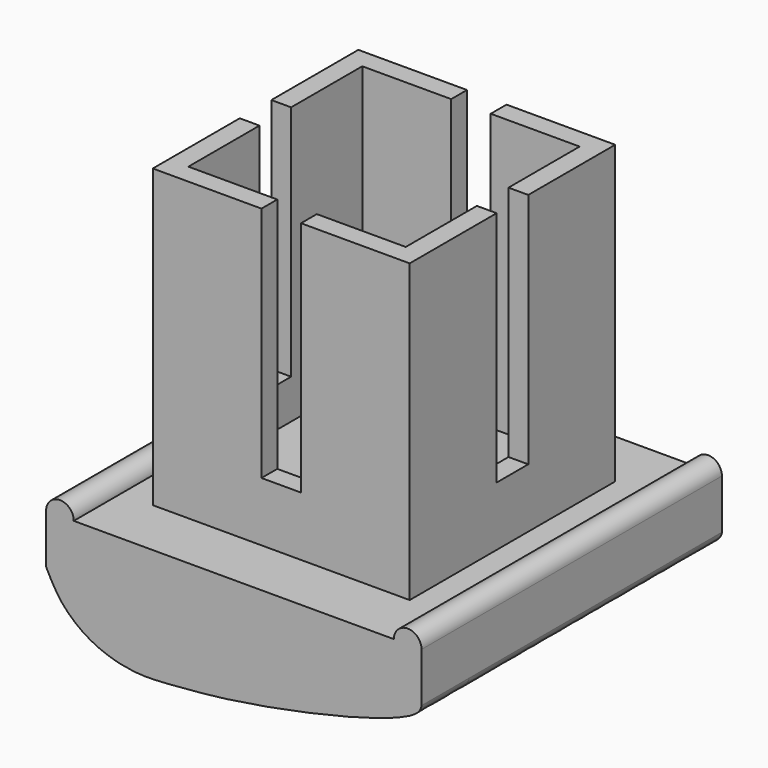
from build123d import *

# Parameters (mm, degrees)
F0_W          = 5.5
F0_H          = 5.5
F0_W_2        = 2
F0_H_2        = 2
F1_DEPTH      = 15
F2_T          = -1
F3_START      = 3
F3_DEPTH      = 22
F5_DEPTH      = 16
F5_DEPTH_BACK = 3


with BuildPart() as f1:
    # F0 (on Top) → F1 (new body)
    with BuildSketch(Plane.XY):
        with Locations((3.75, 3.75)):
            Rectangle(F0_W, F0_H)
        with Locations((0, 3.75)):
            Rectangle(F0_W_2, F0_H)
        with Locations((-3.75, 3.75)):
            Rectangle(F0_W, F0_H)
        with Locations((-3.75, 0)):
            Rectangle(F0_W, F0_H_2)
        Rectangle(F0_W_2, F0_H_2)
        with Locations((3.75, 0)):
            Rectangle(F0_W, F0_H_2)
        with Locations((3.75, -3.75)):
            Rectangle(F0_W, F0_H)
        with Locations((0, -3.75)):
            Rectangle(F0_W_2, F0_H)
        with Locations((-3.75, -3.75)):
            Rectangle(F0_W, F0_H)
    extrude(amount=F1_DEPTH)

    # F2
    f2_openings = [f1.faces().sort_by_distance(p)[0] for p in [
        (0, 0, 15),
    ]]
    offset(amount=F2_T, openings=f2_openings)

    # F0 (on Top) → F3 (cut)
    with BuildSketch(Plane.XY.offset(F3_START)):
        with Locations((-3.75, 0)):
            Rectangle(F0_W, F0_H_2)
        with Locations((0, 3.75)):
            Rectangle(F0_W_2, F0_H)
        with Locations((3.75, 0)):
            Rectangle(F0_W, F0_H_2)
        with Locations((0, -3.75)):
            Rectangle(F0_W_2, F0_H)
    extrude(amount=F3_DEPTH, mode=Mode.SUBTRACT)

    # F4 (on face) → F5 (join, two sides)
    with BuildSketch(Plane.XZ.offset(6.5)) as f5_sk:
        Polygon((9.5, -2.5), (9.5, 0), (8.1, 0), (6.5, 0), (-6.5, 0), (-8.1, 0), (-9.5, 0), (-9.5, -2.5), align=None)
        with BuildLine():
            ThreePointArc((-8.1, 0), (-8.8, 0.7), (-9.5, 0))
            Line((-9.5, 0), (-8.1, 0))
        make_face()
        with BuildLine():
            Line((8.1, 0), (9.5, 0))
            ThreePointArc((9.5, 0), (8.8, 0.7), (8.1, 0))
        make_face()
        with BuildLine():
            add(Edge.make_bspline(
                [(-3.0857180245, -5.6900443979), (-2.6711979969, -5.6534883338), (-0.6382155364, -5.5259124188), (4.3516854172, -4.6654656415), (8.9744619057, -3.3519325688), (9.4804499148, -2.7164395318), (9.5, -2.5)],
                knots=[0.1581423577, 0.1581423577, 0.1581423577, 0.1581423577, 0.3379261215, 0.6272825134, 0.892948007, 1, 1, 1, 1], degree=3))
            Line((9.5, -2.5), (-9.5, -2.5))
            add(Edge.make_bspline(
                [(-3.4938230352, -5.7202531186), (-3.9193313832, -5.7494783037), (-4.8676868004, -5.791289792), (-6.2303397751, -5.5285607506), (-7.574736345, -4.9382947102), (-8.8313136046, -3.8354261533), (-9.278605125, -2.936326813), (-9.5, -2.5)],
                knots=[0.0502659739, 0.0502659739, 0.0502659739, 0.0502659739, 0.2077625312, 0.40408462, 0.5983848295, 0.8039601762, 1, 1, 1, 1], degree=3))
            add(Edge.make_bspline(
                [(-3.0857180245, -5.6900443979), (-3.2218733267, -5.7005172354), (-3.3580194857, -5.710925725), (-3.4938230352, -5.7202531186)],
                knots=[0, 0, 0, 0, 0.0502659739, 0.0502659739, 0.0502659739, 0.0502659739], degree=3))
        make_face()
    extrude(amount=-F5_DEPTH)
    extrude(f5_sk.sketch, amount=F5_DEPTH_BACK)


solid = f1.part
